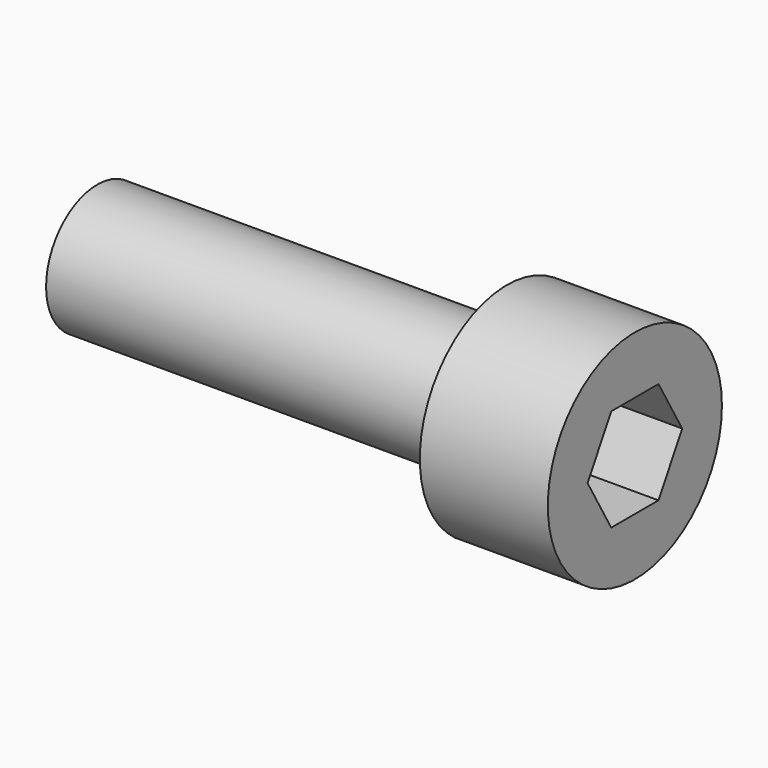
from build123d import *

# Parameters (mm, degrees)
F0_R     = 4.25
F1_DEPTH = 5
F2_R     = 2.5
F3_DEPTH = 16
F5_DEPTH = 3


with BuildPart() as f1:
    # F0 (on Right) → F1 (new body)
    with BuildSketch(Plane.YZ):
        Circle(F0_R)
    extrude(amount=F1_DEPTH)

    # F2 (on face) → F3 (join)
    with BuildSketch(Plane(origin=(0, 0, 0), x_dir=(0, -1, 0), z_dir=(-1, 0, 0))):
        Circle(F2_R)
    extrude(amount=F3_DEPTH)

    # F4 (on face) → F5 (cut)
    with BuildSketch(Plane.YZ.offset(5)):
        Polygon((1.154701, 2), (-1.154701, 2), (-2.309401, 0), (-1.154701, -2), (1.154701, -2), (2.309401, 0), align=None)
    extrude(amount=-F5_DEPTH, mode=Mode.SUBTRACT)


solid = f1.part
